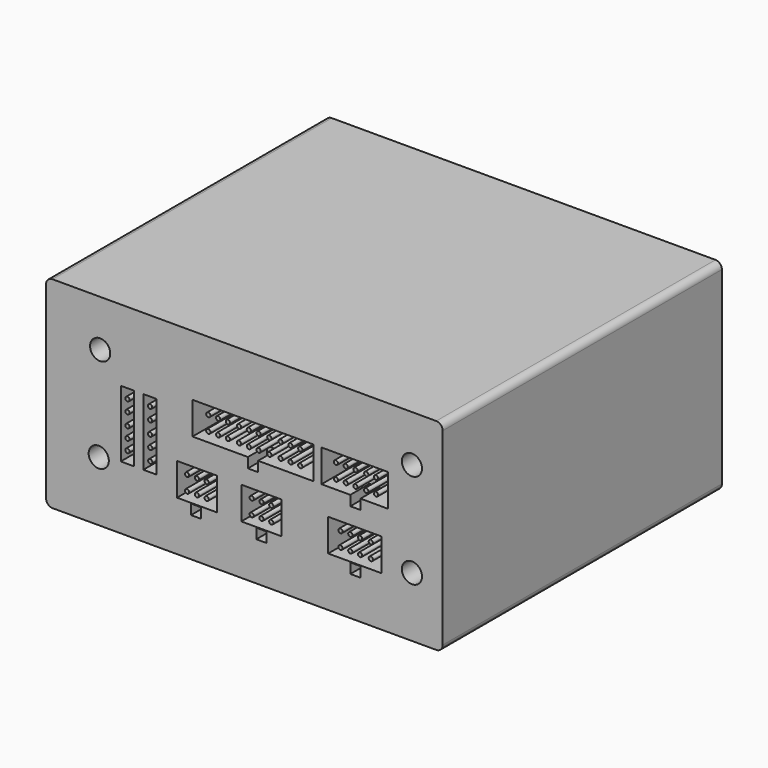
from build123d import *

# Parameters (mm, degrees)
F0_W     = 124.968
F0_H     = 63.5
F0_W_2   = 3.2
F0_H_2   = 3.2
F0_R     = 2.621308
F0_W_3   = 11.260547
F0_H_3   = 32.003672
F0_W_4   = 4.2
F0_H_4   = 21
F0_W_5   = 12.6
F0_H_5   = 10.2
F0_W_6   = 16.8
F0_R_2   = 0.668804
F0_H_6   = 3.159535
F1_DEPTH = 109.982
F2_DEPTH = 13
F3_DEPTH = 7.62
F4_D     = 6.35
F5_D     = 6.35
F6_R     = 2.032


with BuildPart() as f1:
    # F0 (on Front) → F1 (new body)
    with BuildSketch(Plane.XZ):
        Rectangle(F0_W, F0_H)
        with Locations((-15.220037, -17.886562)):
            Rectangle(F0_W_2, F0_H_2, mode=Mode.SUBTRACT)
        with Locations((5.374917, -17.886562)):
            Rectangle(F0_W_2, F0_H_2, mode=Mode.SUBTRACT)
        with Locations((-45.890216, -12.848947)):
            Circle(F0_R, mode=Mode.SUBTRACT)
        with Locations((-55.372785, -2.625553)):
            Rectangle(F0_W_3, F0_H_3, mode=Mode.SUBTRACT)
        with Locations((-36.852143, -1.292067)):
            Rectangle(F0_W_4, F0_H_4, mode=Mode.SUBTRACT)
        with Locations((-29.740218, -1.292067)):
            Rectangle(F0_W_4, F0_H_4, mode=Mode.SUBTRACT)
        with Locations((-14.929863, -10.982262)):
            Rectangle(F0_W_5, F0_H_5, mode=Mode.SUBTRACT)
        with Locations((5.337399, -10.982262)):
            Rectangle(F0_W_5, F0_H_5, mode=Mode.SUBTRACT)
        with Locations((34.97813, -17.886562)):
            Rectangle(F0_W_2, F0_H_2, mode=Mode.SUBTRACT)
        with Locations((34.803987, -10.982262)):
            Rectangle(F0_W_6, F0_H_5, mode=Mode.SUBTRACT)
        with Locations((52.787762, -12.848947)):
            Circle(F0_R, mode=Mode.SUBTRACT)
        Polygon((-16.349911, 2.460127), (-16.349911, 12.660127), (21.850089, 12.660127), (21.850089, 2.460127), (4.307945, 2.460127), (4.307945, -0.699408), (1.107945, -0.699408), (1.107945, 2.460127), align=None, mode=Mode.SUBTRACT)
        with Locations((-45.445725, 17.080413)):
            Circle(F0_R, mode=Mode.SUBTRACT)
        Polygon((24.303987, 2.460127), (24.303987, 12.660127), (45.303987, 12.660127), (45.303987, 2.460127), (36.57813, 2.460127), (36.57813, -0.699408), (33.37813, -0.699408), (33.37813, 2.460127), align=None, mode=Mode.SUBTRACT)
        with Locations((52.787762, 17.080413)):
            Circle(F0_R, mode=Mode.SUBTRACT)
        Polygon((21.850089, 12.660127), (-16.349911, 12.660127), (-16.349911, 2.460127), (1.107945, 2.460127), (1.107945, 2.500592), (4.307945, 2.500592), (4.307945, 2.460127), (21.850089, 2.460127), align=None)
        with Locations((-11.368328, 5.486703)):
            Circle(F0_R_2, mode=Mode.SUBTRACT)
        with Locations((-8.268303, 5.486703)):
            Circle(F0_R_2, mode=Mode.SUBTRACT)
        with Locations((-5.189856, 5.486703)):
            Circle(F0_R_2, mode=Mode.SUBTRACT)
        with Locations((-1.688252, 5.404956)):
            Circle(F0_R_2, mode=Mode.SUBTRACT)
        with Locations((1.411773, 5.404956)):
            Circle(F0_R_2, mode=Mode.SUBTRACT)
        with Locations((4.49022, 5.404956)):
            Circle(F0_R_2, mode=Mode.SUBTRACT)
        with Locations((7.868273, 5.377629)):
            Circle(F0_R_2, mode=Mode.SUBTRACT)
        with Locations((11.422273, 5.39254)):
            Circle(F0_R_2, mode=Mode.SUBTRACT)
        with Locations((14.522298, 5.39254)):
            Circle(F0_R_2, mode=Mode.SUBTRACT)
        with Locations((17.600745, 5.39254)):
            Circle(F0_R_2, mode=Mode.SUBTRACT)
        with Locations((-11.368328, 10.112137)):
            Circle(F0_R_2, mode=Mode.SUBTRACT)
        with Locations((-8.268303, 10.112137)):
            Circle(F0_R_2, mode=Mode.SUBTRACT)
        with Locations((-5.189856, 10.112137)):
            Circle(F0_R_2, mode=Mode.SUBTRACT)
        with Locations((-1.688252, 10.03039)):
            Circle(F0_R_2, mode=Mode.SUBTRACT)
        with Locations((1.411773, 10.03039)):
            Circle(F0_R_2, mode=Mode.SUBTRACT)
        with Locations((4.49022, 10.03039)):
            Circle(F0_R_2, mode=Mode.SUBTRACT)
        with Locations((7.868273, 10.003063)):
            Circle(F0_R_2, mode=Mode.SUBTRACT)
        with Locations((11.422273, 10.017974)):
            Circle(F0_R_2, mode=Mode.SUBTRACT)
        with Locations((14.522298, 10.017974)):
            Circle(F0_R_2, mode=Mode.SUBTRACT)
        with Locations((17.600745, 10.017974)):
            Circle(F0_R_2, mode=Mode.SUBTRACT)
        Polygon((45.303987, 12.660127), (24.303987, 12.660127), (24.303987, 2.460127), (33.37813, 2.460127), (33.37813, 2.500592), (36.57813, 2.500592), (36.57813, 2.460127), (45.303987, 2.460127), align=None)
        with Locations((28.827925, 5.295763)):
            Circle(F0_R_2, mode=Mode.SUBTRACT)
        with Locations((31.92795, 5.295763)):
            Circle(F0_R_2, mode=Mode.SUBTRACT)
        with Locations((35.006397, 5.295763)):
            Circle(F0_R_2, mode=Mode.SUBTRACT)
        with Locations((38.384449, 5.268436)):
            Circle(F0_R_2, mode=Mode.SUBTRACT)
        with Locations((41.484474, 5.268436)):
            Circle(F0_R_2, mode=Mode.SUBTRACT)
        with Locations((28.827925, 9.921197)):
            Circle(F0_R_2, mode=Mode.SUBTRACT)
        with Locations((31.92795, 9.921197)):
            Circle(F0_R_2, mode=Mode.SUBTRACT)
        with Locations((35.006397, 9.921197)):
            Circle(F0_R_2, mode=Mode.SUBTRACT)
        with Locations((38.384449, 9.89387)):
            Circle(F0_R_2, mode=Mode.SUBTRACT)
        with Locations((41.484474, 9.89387)):
            Circle(F0_R_2, mode=Mode.SUBTRACT)
        with Locations((34.97813, -17.886562)):
            Rectangle(F0_W_2, F0_H_2)
        with Locations((5.337399, -10.982262)):
            Rectangle(F0_W_5, F0_H_5)
        with Locations((2.297332, -13.219079)):
            Circle(F0_R_2, mode=Mode.SUBTRACT)
        with Locations((5.397357, -13.219079)):
            Circle(F0_R_2, mode=Mode.SUBTRACT)
        with Locations((8.475804, -13.219079)):
            Circle(F0_R_2, mode=Mode.SUBTRACT)
        with Locations((2.297332, -8.593645)):
            Circle(F0_R_2, mode=Mode.SUBTRACT)
        with Locations((5.397357, -8.593645)):
            Circle(F0_R_2, mode=Mode.SUBTRACT)
        with Locations((8.475804, -8.593645)):
            Circle(F0_R_2, mode=Mode.SUBTRACT)
        with Locations((5.374917, -17.886562)):
            Rectangle(F0_W_2, F0_H_2)
        with Locations((34.803987, -10.982262)):
            Rectangle(F0_W_6, F0_H_5)
        with Locations((30.281712, -13.164089)):
            Circle(F0_R_2, mode=Mode.SUBTRACT)
        with Locations((33.381737, -13.164089)):
            Circle(F0_R_2, mode=Mode.SUBTRACT)
        with Locations((36.460184, -13.164089)):
            Circle(F0_R_2, mode=Mode.SUBTRACT)
        with Locations((30.281712, -8.538655)):
            Circle(F0_R_2, mode=Mode.SUBTRACT)
        with Locations((33.381737, -8.538655)):
            Circle(F0_R_2, mode=Mode.SUBTRACT)
        with Locations((36.460184, -8.538655)):
            Circle(F0_R_2, mode=Mode.SUBTRACT)
        with Locations((39.838236, -13.191417)):
            Circle(F0_R_2, mode=Mode.SUBTRACT)
        with Locations((39.838236, -8.565983)):
            Circle(F0_R_2, mode=Mode.SUBTRACT)
        with Locations((-14.929863, -10.982262)):
            Rectangle(F0_W_5, F0_H_5)
        with Locations((-18.056638, -13.289777)):
            Circle(F0_R_2, mode=Mode.SUBTRACT)
        with Locations((-14.956613, -13.289777)):
            Circle(F0_R_2, mode=Mode.SUBTRACT)
        with Locations((-11.878166, -13.289777)):
            Circle(F0_R_2, mode=Mode.SUBTRACT)
        with Locations((-18.056638, -8.664343)):
            Circle(F0_R_2, mode=Mode.SUBTRACT)
        with Locations((-14.956613, -8.664343)):
            Circle(F0_R_2, mode=Mode.SUBTRACT)
        with Locations((-11.878166, -8.664343)):
            Circle(F0_R_2, mode=Mode.SUBTRACT)
        with Locations((-15.220037, -17.886562)):
            Rectangle(F0_W_2, F0_H_2)
        with Locations((-29.740218, -1.292067)):
            Rectangle(F0_W_4, F0_H_4)
        with Locations((-29.665653, -8.772778)):
            Circle(F0_R_2, mode=Mode.SUBTRACT)
        with Locations((-29.665653, -4.936168)):
            Circle(F0_R_2, mode=Mode.SUBTRACT)
        with Locations((-29.740218, -1.292067)):
            Circle(F0_R_2, mode=Mode.SUBTRACT)
        with Locations((-29.706184, 2.659072)):
            Circle(F0_R_2, mode=Mode.SUBTRACT)
        with Locations((-29.706184, 6.447427)):
            Circle(F0_R_2, mode=Mode.SUBTRACT)
        with Locations((-36.852143, -1.292067)):
            Rectangle(F0_W_4, F0_H_4)
        with Locations((-36.852143, -8.147074)):
            Circle(F0_R_2, mode=Mode.SUBTRACT)
        with Locations((-36.852143, -4.730992)):
            Circle(F0_R_2, mode=Mode.SUBTRACT)
        with Locations((-36.852143, -1.292067)):
            Circle(F0_R_2, mode=Mode.SUBTRACT)
        with Locations((-36.852143, 2.592957)):
            Circle(F0_R_2, mode=Mode.SUBTRACT)
        with Locations((-36.852143, 6.182599)):
            Circle(F0_R_2, mode=Mode.SUBTRACT)
        with Locations((-55.372785, -2.625553)):
            Rectangle(F0_W_3, F0_H_3)
        with Locations((-45.445725, 17.080413)):
            Circle(F0_R)
        with Locations((-45.890216, -12.848947)):
            Circle(F0_R)
        with Locations((52.787762, -12.848947)):
            Circle(F0_R)
        with Locations((52.787762, 17.080413)):
            Circle(F0_R)
        with Locations((34.97813, 0.880359)):
            Rectangle(F0_W_2, F0_H_6)
        with Locations((2.707945, 0.880359)):
            Rectangle(F0_W_2, F0_H_6)
        with Locations((-36.852143, 6.182599)):
            Circle(F0_R_2)
        with Locations((-36.852143, 2.592957)):
            Circle(F0_R_2)
        with Locations((-36.852143, -1.292067)):
            Circle(F0_R_2)
        with Locations((-36.852143, -4.730992)):
            Circle(F0_R_2)
        with Locations((-36.852143, -8.147074)):
            Circle(F0_R_2)
        with Locations((-29.665653, -8.772778)):
            Circle(F0_R_2)
        with Locations((-29.665653, -4.936168)):
            Circle(F0_R_2)
        with Locations((-29.740218, -1.292067)):
            Circle(F0_R_2)
        with Locations((-29.706184, 2.659072)):
            Circle(F0_R_2)
        with Locations((-29.706184, 6.447427)):
            Circle(F0_R_2)
        with Locations((-18.056638, -8.664343)):
            Circle(F0_R_2)
        with Locations((-14.956613, -8.664343)):
            Circle(F0_R_2)
        with Locations((-11.878166, -8.664343)):
            Circle(F0_R_2)
        with Locations((-11.878166, -13.289777)):
            Circle(F0_R_2)
        with Locations((-14.956613, -13.289777)):
            Circle(F0_R_2)
        with Locations((-18.056638, -13.289777)):
            Circle(F0_R_2)
        with Locations((2.297332, -8.593645)):
            Circle(F0_R_2)
        with Locations((5.397357, -8.593645)):
            Circle(F0_R_2)
        with Locations((8.475804, -8.593645)):
            Circle(F0_R_2)
        with Locations((8.475804, -13.219079)):
            Circle(F0_R_2)
        with Locations((5.397357, -13.219079)):
            Circle(F0_R_2)
        with Locations((2.297332, -13.219079)):
            Circle(F0_R_2)
        with Locations((-11.368328, 10.112137)):
            Circle(F0_R_2)
        with Locations((-11.368328, 5.486703)):
            Circle(F0_R_2)
        with Locations((-8.268303, 5.486703)):
            Circle(F0_R_2)
        with Locations((-8.268303, 10.112137)):
            Circle(F0_R_2)
        with Locations((-5.189856, 10.112137)):
            Circle(F0_R_2)
        with Locations((-5.189856, 5.486703)):
            Circle(F0_R_2)
        with Locations((-1.688252, 5.404956)):
            Circle(F0_R_2)
        with Locations((-1.688252, 10.03039)):
            Circle(F0_R_2)
        with Locations((1.411773, 10.03039)):
            Circle(F0_R_2)
        with Locations((1.411773, 5.404956)):
            Circle(F0_R_2)
        with Locations((4.49022, 5.404956)):
            Circle(F0_R_2)
        with Locations((4.49022, 10.03039)):
            Circle(F0_R_2)
        with Locations((7.868273, 10.003063)):
            Circle(F0_R_2)
        with Locations((11.422273, 5.39254)):
            Circle(F0_R_2)
        with Locations((11.422273, 10.017974)):
            Circle(F0_R_2)
        with Locations((14.522298, 10.017974)):
            Circle(F0_R_2)
        with Locations((17.600745, 5.39254)):
            Circle(F0_R_2)
        with Locations((17.600745, 10.017974)):
            Circle(F0_R_2)
        with Locations((7.868273, 5.377629)):
            Circle(F0_R_2)
        with Locations((14.522298, 5.39254)):
            Circle(F0_R_2)
        with Locations((28.827925, 9.921197)):
            Circle(F0_R_2)
        with Locations((31.92795, 9.921197)):
            Circle(F0_R_2)
        with Locations((35.006397, 9.921197)):
            Circle(F0_R_2)
        with Locations((38.384449, 9.89387)):
            Circle(F0_R_2)
        with Locations((41.484474, 9.89387)):
            Circle(F0_R_2)
        with Locations((41.484474, 5.268436)):
            Circle(F0_R_2)
        with Locations((38.384449, 5.268436)):
            Circle(F0_R_2)
        with Locations((35.006397, 5.295763)):
            Circle(F0_R_2)
        with Locations((31.92795, 5.295763)):
            Circle(F0_R_2)
        with Locations((28.827925, 5.295763)):
            Circle(F0_R_2)
        with Locations((39.838236, -8.565983)):
            Circle(F0_R_2)
        with Locations((36.460184, -8.538655)):
            Circle(F0_R_2)
        with Locations((33.381737, -8.538655)):
            Circle(F0_R_2)
        with Locations((30.281712, -8.538655)):
            Circle(F0_R_2)
        with Locations((30.281712, -13.164089)):
            Circle(F0_R_2)
        with Locations((33.381737, -13.164089)):
            Circle(F0_R_2)
        with Locations((36.460184, -13.164089)):
            Circle(F0_R_2)
        with Locations((39.838236, -13.191417)):
            Circle(F0_R_2)
    extrude(amount=-F1_DEPTH)

    # F0 (on Front) → F2 (cut)
    with BuildSketch(Plane.XZ):
        Polygon((21.850089, 12.660127), (-16.349911, 12.660127), (-16.349911, 2.460127), (1.107945, 2.460127), (1.107945, 2.500592), (4.307945, 2.500592), (4.307945, 2.460127), (21.850089, 2.460127), align=None)
        with Locations((-11.368328, 5.486703)):
            Circle(F0_R_2, mode=Mode.SUBTRACT)
        with Locations((-8.268303, 5.486703)):
            Circle(F0_R_2, mode=Mode.SUBTRACT)
        with Locations((-5.189856, 5.486703)):
            Circle(F0_R_2, mode=Mode.SUBTRACT)
        with Locations((-1.688252, 5.404956)):
            Circle(F0_R_2, mode=Mode.SUBTRACT)
        with Locations((1.411773, 5.404956)):
            Circle(F0_R_2, mode=Mode.SUBTRACT)
        with Locations((4.49022, 5.404956)):
            Circle(F0_R_2, mode=Mode.SUBTRACT)
        with Locations((7.868273, 5.377629)):
            Circle(F0_R_2, mode=Mode.SUBTRACT)
        with Locations((11.422273, 5.39254)):
            Circle(F0_R_2, mode=Mode.SUBTRACT)
        with Locations((14.522298, 5.39254)):
            Circle(F0_R_2, mode=Mode.SUBTRACT)
        with Locations((17.600745, 5.39254)):
            Circle(F0_R_2, mode=Mode.SUBTRACT)
        with Locations((-11.368328, 10.112137)):
            Circle(F0_R_2, mode=Mode.SUBTRACT)
        with Locations((-8.268303, 10.112137)):
            Circle(F0_R_2, mode=Mode.SUBTRACT)
        with Locations((-5.189856, 10.112137)):
            Circle(F0_R_2, mode=Mode.SUBTRACT)
        with Locations((-1.688252, 10.03039)):
            Circle(F0_R_2, mode=Mode.SUBTRACT)
        with Locations((1.411773, 10.03039)):
            Circle(F0_R_2, mode=Mode.SUBTRACT)
        with Locations((4.49022, 10.03039)):
            Circle(F0_R_2, mode=Mode.SUBTRACT)
        with Locations((7.868273, 10.003063)):
            Circle(F0_R_2, mode=Mode.SUBTRACT)
        with Locations((11.422273, 10.017974)):
            Circle(F0_R_2, mode=Mode.SUBTRACT)
        with Locations((14.522298, 10.017974)):
            Circle(F0_R_2, mode=Mode.SUBTRACT)
        with Locations((17.600745, 10.017974)):
            Circle(F0_R_2, mode=Mode.SUBTRACT)
        Polygon((45.303987, 12.660127), (24.303987, 12.660127), (24.303987, 2.460127), (33.37813, 2.460127), (33.37813, 2.500592), (36.57813, 2.500592), (36.57813, 2.460127), (45.303987, 2.460127), align=None)
        with Locations((28.827925, 5.295763)):
            Circle(F0_R_2, mode=Mode.SUBTRACT)
        with Locations((31.92795, 5.295763)):
            Circle(F0_R_2, mode=Mode.SUBTRACT)
        with Locations((35.006397, 5.295763)):
            Circle(F0_R_2, mode=Mode.SUBTRACT)
        with Locations((38.384449, 5.268436)):
            Circle(F0_R_2, mode=Mode.SUBTRACT)
        with Locations((41.484474, 5.268436)):
            Circle(F0_R_2, mode=Mode.SUBTRACT)
        with Locations((28.827925, 9.921197)):
            Circle(F0_R_2, mode=Mode.SUBTRACT)
        with Locations((31.92795, 9.921197)):
            Circle(F0_R_2, mode=Mode.SUBTRACT)
        with Locations((35.006397, 9.921197)):
            Circle(F0_R_2, mode=Mode.SUBTRACT)
        with Locations((38.384449, 9.89387)):
            Circle(F0_R_2, mode=Mode.SUBTRACT)
        with Locations((41.484474, 9.89387)):
            Circle(F0_R_2, mode=Mode.SUBTRACT)
        with Locations((34.803987, -10.982262)):
            Rectangle(F0_W_6, F0_H_5)
        with Locations((30.281712, -13.164089)):
            Circle(F0_R_2, mode=Mode.SUBTRACT)
        with Locations((33.381737, -13.164089)):
            Circle(F0_R_2, mode=Mode.SUBTRACT)
        with Locations((36.460184, -13.164089)):
            Circle(F0_R_2, mode=Mode.SUBTRACT)
        with Locations((30.281712, -8.538655)):
            Circle(F0_R_2, mode=Mode.SUBTRACT)
        with Locations((33.381737, -8.538655)):
            Circle(F0_R_2, mode=Mode.SUBTRACT)
        with Locations((36.460184, -8.538655)):
            Circle(F0_R_2, mode=Mode.SUBTRACT)
        with Locations((39.838236, -13.191417)):
            Circle(F0_R_2, mode=Mode.SUBTRACT)
        with Locations((39.838236, -8.565983)):
            Circle(F0_R_2, mode=Mode.SUBTRACT)
        with Locations((5.337399, -10.982262)):
            Rectangle(F0_W_5, F0_H_5)
        with Locations((2.297332, -13.219079)):
            Circle(F0_R_2, mode=Mode.SUBTRACT)
        with Locations((5.397357, -13.219079)):
            Circle(F0_R_2, mode=Mode.SUBTRACT)
        with Locations((8.475804, -13.219079)):
            Circle(F0_R_2, mode=Mode.SUBTRACT)
        with Locations((2.297332, -8.593645)):
            Circle(F0_R_2, mode=Mode.SUBTRACT)
        with Locations((5.397357, -8.593645)):
            Circle(F0_R_2, mode=Mode.SUBTRACT)
        with Locations((8.475804, -8.593645)):
            Circle(F0_R_2, mode=Mode.SUBTRACT)
        with Locations((-14.929863, -10.982262)):
            Rectangle(F0_W_5, F0_H_5)
        with Locations((-18.056638, -13.289777)):
            Circle(F0_R_2, mode=Mode.SUBTRACT)
        with Locations((-14.956613, -13.289777)):
            Circle(F0_R_2, mode=Mode.SUBTRACT)
        with Locations((-11.878166, -13.289777)):
            Circle(F0_R_2, mode=Mode.SUBTRACT)
        with Locations((-18.056638, -8.664343)):
            Circle(F0_R_2, mode=Mode.SUBTRACT)
        with Locations((-14.956613, -8.664343)):
            Circle(F0_R_2, mode=Mode.SUBTRACT)
        with Locations((-11.878166, -8.664343)):
            Circle(F0_R_2, mode=Mode.SUBTRACT)
        with Locations((-36.852143, -1.292067)):
            Rectangle(F0_W_4, F0_H_4)
        with Locations((-36.852143, -8.147074)):
            Circle(F0_R_2, mode=Mode.SUBTRACT)
        with Locations((-36.852143, -4.730992)):
            Circle(F0_R_2, mode=Mode.SUBTRACT)
        with Locations((-36.852143, -1.292067)):
            Circle(F0_R_2, mode=Mode.SUBTRACT)
        with Locations((-36.852143, 2.592957)):
            Circle(F0_R_2, mode=Mode.SUBTRACT)
        with Locations((-36.852143, 6.182599)):
            Circle(F0_R_2, mode=Mode.SUBTRACT)
        with Locations((-29.740218, -1.292067)):
            Rectangle(F0_W_4, F0_H_4)
        with Locations((-29.665653, -8.772778)):
            Circle(F0_R_2, mode=Mode.SUBTRACT)
        with Locations((-29.665653, -4.936168)):
            Circle(F0_R_2, mode=Mode.SUBTRACT)
        with Locations((-29.740218, -1.292067)):
            Circle(F0_R_2, mode=Mode.SUBTRACT)
        with Locations((-29.706184, 2.659072)):
            Circle(F0_R_2, mode=Mode.SUBTRACT)
        with Locations((-29.706184, 6.447427)):
            Circle(F0_R_2, mode=Mode.SUBTRACT)
    extrude(amount=-F2_DEPTH, mode=Mode.SUBTRACT)

    # F0 (on Front) → F3 (cut)
    with BuildSketch(Plane.XZ):
        with Locations((2.707945, 0.880359)):
            Rectangle(F0_W_2, F0_H_6)
        with Locations((34.97813, 0.880359)):
            Rectangle(F0_W_2, F0_H_6)
        with Locations((34.97813, -17.886562)):
            Rectangle(F0_W_2, F0_H_2)
        with Locations((5.374917, -17.886562)):
            Rectangle(F0_W_2, F0_H_2)
        with Locations((-15.220037, -17.886562)):
            Rectangle(F0_W_2, F0_H_2)
    extrude(amount=-F3_DEPTH, mode=Mode.SUBTRACT)

    # F4 (through all)
    with Locations(Plane.XZ):
        with Locations((-45.445725, 17.080413)):
            Hole(F4_D / 2)

    # F5 (through all)
    with Locations(Plane.XZ):
        with Locations((-45.890216, -12.848947), (52.787762, 17.080413), (52.787762, -12.848947)):
            Hole(F5_D / 2)

    # F6
    f6_edges = [f1.edges().sort_by_distance(p)[0] for p in [
        (-62.484, 54.991, 31.75),
        (-62.484, 54.991, -31.75),
        (62.484, 54.991, 31.75),
        (62.484, 54.991, -31.75),
    ]]
    fillet(f6_edges, radius=F6_R)


solid = f1.part
